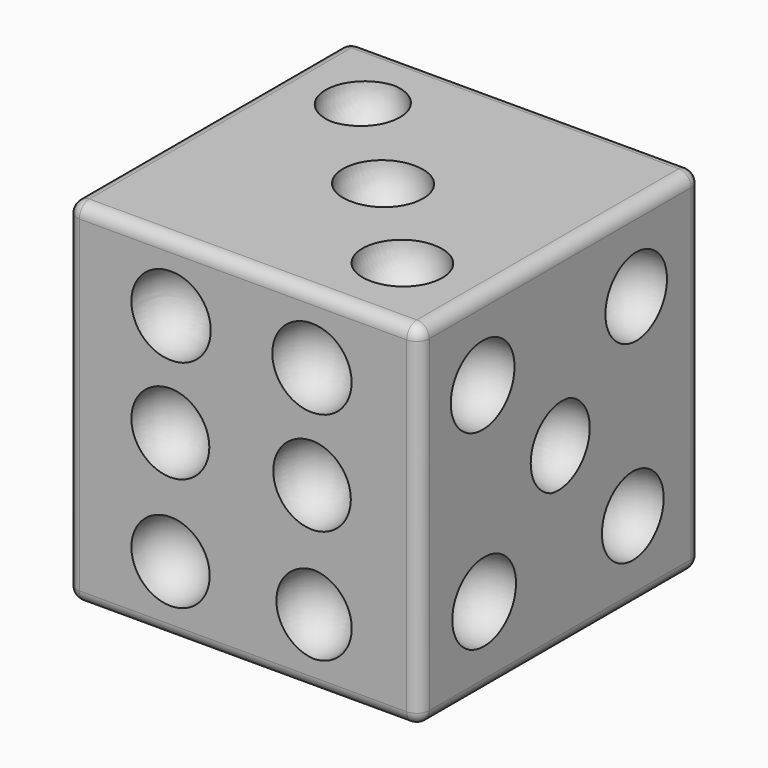
from build123d import *

# Parameters (mm, degrees)
F0_W     = 14.2875
F0_H     = 14.2875
F1_DEPTH = 14.2875
F4_R     = 0.508


with BuildPart() as f1:
    # F0 (on Front) → F1 (new body)
    with BuildSketch(Plane.XZ):
        with Locations((-7.14375, 7.14375)):
            Rectangle(F0_W, F0_H)
    extrude(amount=F1_DEPTH)

    # F2 (on face) → F3 (revolve, cut)
    with BuildSketch(Plane.XZ.offset(14.2875)):
        with BuildLine():
            Line((-10.0838, 1.1684), (-10.0838, 4.3434))
            ThreePointArc((-10.0838, 4.3434), (-11.6713, 2.7559), (-10.0838, 1.1684))
        make_face()
    revolve(axis=Axis((-10.0838, -14.2875, 2.7559), (0, 0, 1)), mode=Mode.SUBTRACT)

    # F4
    f4_edges = [f1.edges().sort_by_distance(p)[0] for p in [
        (-7.14375, -14.2875, 14.2875),
        (-14.2875, -7.14375, 14.2875),
        (-14.2875, -14.2875, 7.14375),
        (-14.2875, -7.14375, 0),
        (-7.14375, -14.2875, 0),
        (0, -14.2875, 7.14375),
        (0, -7.14375, 14.2875),
        (-7.14375, 0, 14.2875),
        (-14.2875, 0, 7.14375),
        (0, 0, 7.14375),
        (0, -7.14375, 0),
        (-7.14375, 0, 0),
    ]]
    fillet(f4_edges, radius=F4_R)

    # F5 (on face) → F6 (revolve, cut)
    with BuildSketch(Plane.XZ.offset(14.2875)):
        with BuildLine():
            Line((-10.0838, 9.9441), (-10.0420315658, 13.1185504239))
            ThreePointArc((-10.0420315658, 13.1185504239), (-11.6711626, 11.5524860248), (-10.0838, 9.9441))
        make_face()
    revolve(axis=Axis((-10.0629157829, -14.2875, 11.5313252119), (0.0131565511, 0, 0.9999134488)), mode=Mode.SUBTRACT)

    # F7 (on face) → F8 (revolve, cut)
    with BuildSketch(Plane.XZ.offset(14.2875)):
        with BuildLine():
            Line((-10.0919239489, 5.7582007871), (-10.0919239489, 8.9331592129))
            ThreePointArc((-10.0919239489, 8.9331592129), (-11.6713, 7.34568), (-10.0919239489, 5.7582007871))
        make_face()
    revolve(axis=Axis((-10.0919239489, -14.2875, 7.34568), (0, 0, -1)), mode=Mode.SUBTRACT)

    # F9 (on face) → F10 (revolve, cut)
    with BuildSketch(Plane.XZ.offset(14.2875)):
        with BuildLine():
            Line((-4.3692586865, 13.1186316562), (-4.3307, 9.9441))
            ThreePointArc((-4.3307, 9.9441), (-2.7433170903, 11.5508807654), (-4.3692586865, 13.1186316562))
        make_face()
    revolve(axis=Axis((-4.3499793433, -14.2875, 11.5313658281), (-0.012145364, 0, 0.9999262423)), mode=Mode.SUBTRACT)

    # F11 (on face) → F12 (revolve, cut)
    with BuildSketch(Plane.XZ.offset(14.2875)):
        with BuildLine():
            Line((-4.3461467555, 5.7582551521), (-4.3461467555, 8.9331048479))
            ThreePointArc((-4.3461467555, 8.9331048479), (-5.9182, 7.34568), (-4.3461467555, 5.7582551521))
        make_face()
    revolve(axis=Axis((-4.3461467555, -14.2875, 7.34568), (0, 0, 1)), mode=Mode.SUBTRACT)

    # F13 (on face) → F14 (revolve, cut)
    with BuildSketch(Plane.XZ.offset(14.2875)):
        with BuildLine():
            Line((-4.2643279318, 1.1695581378), (-4.2643279318, 4.3422418622))
            ThreePointArc((-4.2643279318, 4.3422418622), (-5.7912, 2.7559), (-4.2643279318, 1.1695581378))
        make_face()
    revolve(axis=Axis((-4.2643279318, -14.2875, 2.7559), (0, 0, 1)), mode=Mode.SUBTRACT)

    # F15 (on face) → F16 (revolve, cut)
    with BuildSketch(Plane(origin=(0, 0, 0), x_dir=(-1, 0, 0), z_dir=(0, 1, 0))):
        with BuildLine():
            Line((7.2988448247, 8.9323922513), (7.3488496388, 5.75818))
            ThreePointArc((7.3488496388, 5.75818), (8.9361526895, 7.3706855093), (7.2988448247, 8.9323922513))
        make_face()
    revolve(axis=Axis((-7.3238472318, 0, 7.3452861257), (0.0157515019, 0, 0.9998759374)), mode=Mode.SUBTRACT)

    # F17 (on face) → F18 (revolve, cut)
    with BuildSketch(Plane.YZ):
        with BuildLine():
            Line((-7.6086672758, 5.7536149075), (-6.6722106654, 8.7812589233))
            ThreePointArc((-6.6722106654, 8.7812589233), (-8.5651113035, 7.7080910402), (-7.6086672758, 5.7536149075))
        make_face()
    revolve(axis=Axis((0, -7.1404389706, 7.2674369154), (0, 0.295490419, 0.955345703)), mode=Mode.SUBTRACT)

    # F19 (on face) → F20 (revolve, cut)
    with BuildSketch(Plane.YZ):
        with BuildLine():
            Line((-11.0729314604, 9.4363273922), (-11.0729314604, 12.6108726078))
            ThreePointArc((-11.0729314604, 12.6108726078), (-12.6873, 11.0236), (-11.0729314604, 9.4363273922))
        make_face()
    revolve(axis=Axis((0, -11.0729314604, 11.0236), (0, 0, 1)), mode=Mode.SUBTRACT)

    # F21 (on face) → F22 (revolve, cut)
    with BuildSketch(Plane.YZ):
        with BuildLine():
            Line((-3.4417, 1.6764), (-3.4848600236, 4.8508131868))
            ThreePointArc((-3.4848600236, 4.8508131868), (-5.0290532899, 3.2423179937), (-3.4417, 1.6764))
        make_face()
    revolve(axis=Axis((0, -3.4632800118, 3.2636065934), (0, -0.0135949646, 0.9999075842)), mode=Mode.SUBTRACT)

    # F23 (on face) → F24 (revolve, cut)
    with BuildSketch(Plane.YZ):
        with BuildLine():
            Line((-10.9969131691, 1.6766243267), (-10.9969131691, 4.8511756733))
            ThreePointArc((-10.9969131691, 4.8511756733), (-12.6111, 3.2639), (-10.9969131691, 1.6766243267))
        make_face()
    revolve(axis=Axis((0, -10.9969131691, 3.2639), (0, 0, 1)), mode=Mode.SUBTRACT)

    # F25 (on face) → F26 (revolve, cut)
    with BuildSketch(Plane.YZ):
        with BuildLine():
            Line((-3.2907685396, 9.4363273922), (-3.2907685396, 12.6108726078))
            ThreePointArc((-3.2907685396, 12.6108726078), (-4.8514, 11.0236), (-3.2907685396, 9.4363273922))
        make_face()
    revolve(axis=Axis((0, -3.2907685396, 11.0236), (0, 0, 1)), mode=Mode.SUBTRACT)

    # F27 (on face) → F28 (revolve, cut)
    with BuildSketch(Plane(origin=(-14.2875, 0, 0), x_dir=(0, -1, 0), z_dir=(-1, 0, 0))):
        with BuildLine():
            Line((3.2281350173, 1.676802928), (3.2281350173, 4.850997072))
            ThreePointArc((3.2281350173, 4.850997072), (1.6764, 3.2639), (3.2281350173, 1.676802928))
        make_face()
    revolve(axis=Axis((-14.2875, -3.2281350173, 3.2639), (0, 0, 1)), mode=Mode.SUBTRACT)

    # F29 (on face) → F30 (revolve, cut)
    with BuildSketch(Plane(origin=(-14.2875, 0, 0), x_dir=(0, -1, 0), z_dir=(-1, 0, 0))):
        with BuildLine():
            Line((11.0350964905, 12.6110583713), (11.0350964905, 9.4361416287))
            ThreePointArc((11.0350964905, 9.4361416287), (12.6111, 11.0236), (11.0350964905, 12.6110583713))
        make_face()
    revolve(axis=Axis((-14.2875, -11.0350964905, 11.0236), (0, 0, 1)), mode=Mode.SUBTRACT)

    # F31 (on face) → F32 (revolve, cut)
    with BuildSketch(Plane.XY.offset(14.2875)):
        with BuildLine():
            Line((-11.1058844946, -4.8492660498), (-11.1058844946, -1.6785339502))
            ThreePointArc((-11.1058844946, -1.6785339502), (-12.6111, -3.2639), (-11.1058844946, -4.8492660498))
        make_face()
    revolve(axis=Axis((-11.1058844946, -3.2639, 14.2875), (0, 1, 0)), mode=Mode.SUBTRACT)

    # F33 (on face) → F34 (revolve, cut)
    with BuildSketch(Plane.XY.offset(14.2875)):
        with BuildLine():
            Line((-3.3244452293, -9.4372549791), (-3.2639, -12.6111))
            ThreePointArc((-3.2639, -12.6111), (-1.676688771, -10.9933218777), (-3.3244452293, -9.4372549791))
        make_face()
    revolve(axis=Axis((-3.2941726147, -11.0241774896, 14.2875), (0.019072833, -0.999818097, 0)), mode=Mode.SUBTRACT)

    # F35 (on face) → F36 (revolve, cut)
    with BuildSketch(Plane.XY.offset(14.2875)):
        with BuildLine():
            Line((-7.17592568, -5.5630645069), (-7.17592568, -8.7371294224))
            ThreePointArc((-7.17592568, -8.7371294224), (-5.5499, -7.1500969646), (-7.17592568, -5.5630645069))
        make_face()
    revolve(axis=Axis((-7.17592568, -7.1500969646, 14.2875), (0, 1, 0)), mode=Mode.SUBTRACT)

    # F37 (on face) → F38 (revolve, cut)
    with BuildSketch(Plane(origin=(0, 0, 0), x_dir=(1, 0, 0), z_dir=(0, 0, -1))):
        with BuildLine():
            Line((-10.0076, 8.4201), (-10.0409642922, 11.5947493547))
            ThreePointArc((-10.0409642922, 11.5947493547), (-11.5950123362, 9.9909169327), (-10.0076, 8.4201))
        make_face()
    revolve(axis=Axis((-10.0242821461, -10.0074246773, 0), (0.0105090188, 0.9999447787, 0)), mode=Mode.SUBTRACT)

    # F39 (on face) → F40 (revolve, cut)
    with BuildSketch(Plane(origin=(0, 0, 0), x_dir=(1, 0, 0), z_dir=(0, 0, -1))):
        with BuildLine():
            Line((-4.300617507, 11.5949648084), (-4.2799, 8.4201))
            ThreePointArc((-4.2799, 8.4201), (-2.6924337983, 10.017958974), (-4.300617507, 11.5949648084))
        make_face()
    revolve(axis=Axis((-4.2902587535, -10.0075324042, 0), (-0.006525338, -0.9999787098, 0)), mode=Mode.SUBTRACT)

    # F41 (on face) → F42 (revolve, cut)
    with BuildSketch(Plane(origin=(0, 0, 0), x_dir=(1, 0, 0), z_dir=(0, 0, -1))):
        with BuildLine():
            Line((-9.9134885621, 5.8646079501), (-10.2043533177, 2.7046399002))
            ThreePointArc((-10.2043533177, 2.7046399002), (-8.426782693, 4.1343909213), (-9.9134885621, 5.8646079501))
        make_face()
    revolve(axis=Axis((-10.0589209399, -4.2846239252, 0), (-0.0916592622, 0.9957904296, 0)), mode=Mode.SUBTRACT)

    # F43 (on face) → F44 (revolve, cut)
    with BuildSketch(Plane(origin=(0, 0, 0), x_dir=(1, 0, 0), z_dir=(0, 0, -1))):
        with BuildLine():
            Line((-4.2534322279, 2.6926206588), (-4.4098186455, 5.8620748941))
            ThreePointArc((-4.4098186455, 5.8620748941), (-5.8654710512, 4.20166515), (-4.2534322279, 2.6926206588))
        make_face()
    revolve(axis=Axis((-4.3316254367, -4.2773477764, 0), (-0.0492817953, -0.9987849141, 0)), mode=Mode.SUBTRACT)


solid = f1.part
